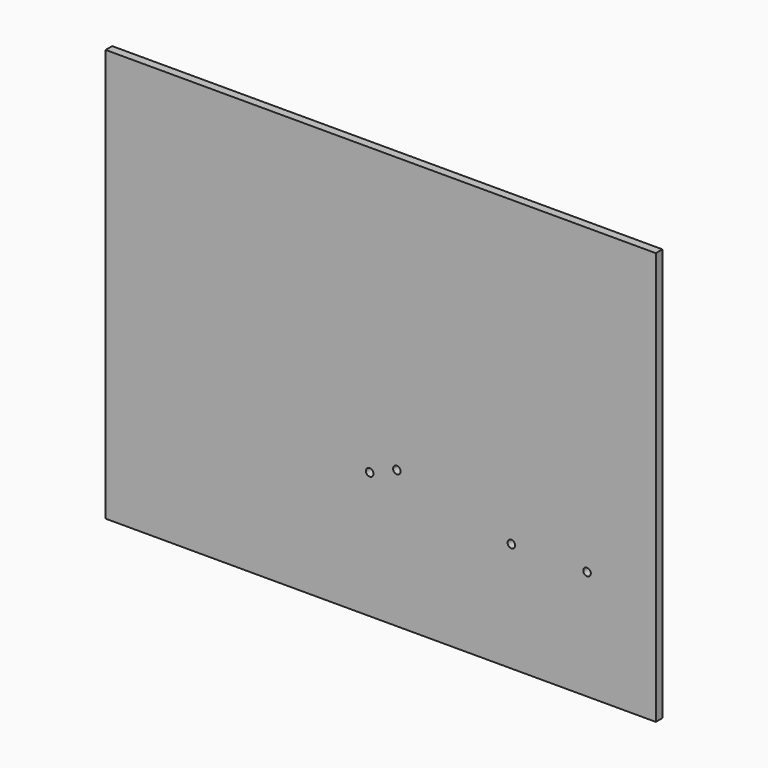
from build123d import *

# Parameters (mm, degrees)
F0_W     = 400
F0_H     = 300
F1_DEPTH = 6
F3_R     = 2.75
F4_DEPTH = 6


with BuildPart() as f1:
    # F0 (on Front) → F1 (new body)
    with BuildSketch(Plane.XZ):
        Rectangle(F0_W, F0_H)
    extrude(amount=-F1_DEPTH)

    # F3 (on face) → F4 (cut, through all)
    with BuildSketch(Plane.XZ):
        with Locations((150, -70.32)):
            Circle(F3_R)
        with Locations((95, -70.32)):
            Circle(F3_R)
        with Locations((11.75, -50)):
            Circle(F3_R)
        with Locations((-8.02, -57.96)):
            Circle(F3_R)
    extrude(amount=-F4_DEPTH, mode=Mode.SUBTRACT)


solid = f1.part
